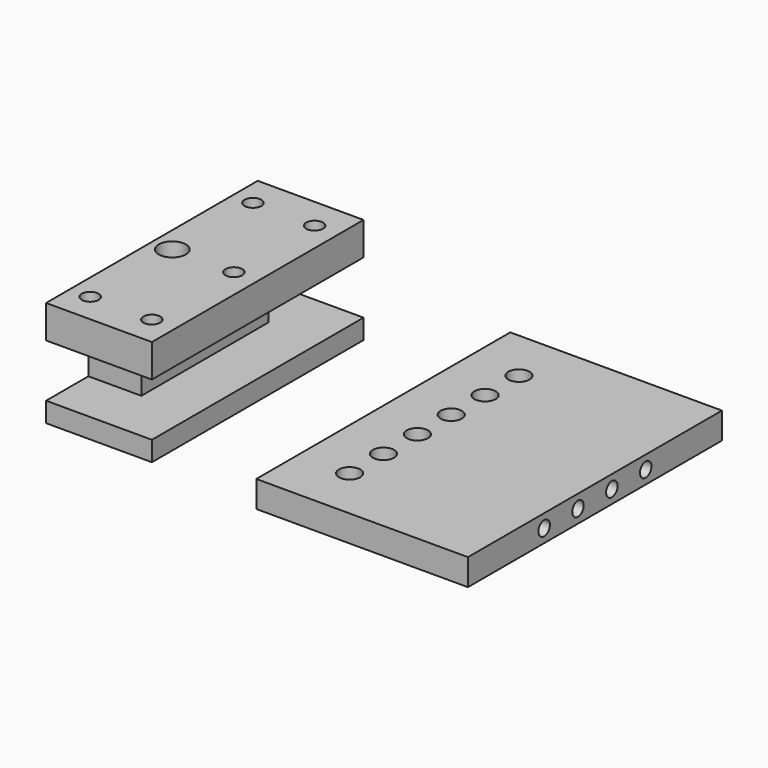
from build123d import *

# Parameters (mm, degrees)
F0_W      = 50.8
F0_H      = 76.2
F1_DEPTH  = 6.35
F3_D      = 5.1054
F5_D      = 3.4544
F5_DEPTH  = 9.525
F5_TIP    = 1.0378064612
F6_W      = 25.4
F6_H      = 63.5
F7_DEPTH  = 25.4
F8_W      = 25.4
F8_H      = 12.7254
F9_DEPTH  = 12.7
F10_W     = 25.4
F10_H     = 12.7254
F11_DEPTH = 12.7
F12_W     = 38.1
F12_H     = 12.7254
F13_DEPTH = 12.7
F15_D     = 4.0386
F15_DEPTH = 9.525
F15_TIP   = 1.213317848
F16_D     = 6.5278


with BuildPart() as f1:
    # F0 (on Top) → F1 (new body)
    with BuildSketch(Plane.XY):
        Rectangle(F0_W, F0_H)
    extrude(amount=F1_DEPTH)

    # F3 (through all)
    with Locations(Plane.XY.offset(6.35)):
        with Locations((-13.1587591022, 25.4), (-13.1587591022, 15.24), (-13.1587591022, 5.08), (-13.1587591022, -5.08), (-13.1587591022, -15.24), (-13.1587591022, -25.4)):
            Hole(F3_D / 2)

    # F5
    with Locations(Plane.YZ.offset(25.4)):
        with Locations((-15.24, 3.175), (-5.08, 3.175), (5.08, 3.175), (15.24, 3.175)):
            Hole(F5_D / 2, depth=F5_DEPTH)
            with Locations((0, 0, -(F5_DEPTH + F5_TIP / 2))):  # 118° drill point
                Cone(0, F5_D / 2, F5_TIP, mode=Mode.SUBTRACT)


with BuildPart() as f7:
    # F6 (on Top) → F7 (new body)
    with BuildSketch(Plane.XY):
        with Locations((-65.2278307825, -3.75713877)):
            Rectangle(F6_W, F6_H)
    extrude(amount=F7_DEPTH)

    # F8 (on face) → F9 (cut)
    with BuildSketch(Plane.XZ.offset(35.50713877)):
        with Locations((-65.2278307825, 11.1125)):
            Rectangle(F8_W, F8_H)
    extrude(amount=-F9_DEPTH, mode=Mode.SUBTRACT)

    # F10 (on face) → F11 (cut)
    with BuildSketch(Plane(origin=(0, 27.99286123, 0), x_dir=(-1, 0, 0), z_dir=(0, 1, 0))):
        with Locations((65.2278307825, 11.1125)):
            Rectangle(F10_W, F10_H)
    extrude(amount=-F11_DEPTH, mode=Mode.SUBTRACT)

    # F12 (on face) → F13 (cut)
    with BuildSketch(Plane.YZ.offset(-52.5278307825)):
        with Locations((-3.75713877, 11.1125)):
            Rectangle(F12_W, F12_H)
    extrude(amount=-F13_DEPTH, mode=Mode.SUBTRACT)

    # F15
    with Locations(Plane.XY.offset(25.4)):
        with Locations((-73.0292052031, 20.4399321228), (-58.2360997796, 20.4399321228), (-58.2360997796, -3.75713877), (-58.2360997796, -28.3932108432), (-73.0292052031, -28.3932108432)):
            Hole(F15_D / 2, depth=F15_DEPTH)
            with Locations((0, 0, -(F15_DEPTH + F15_TIP / 2))):  # 118° drill point
                Cone(0, F15_D / 2, F15_TIP, mode=Mode.SUBTRACT)

    # F16 (through all)
    with Locations(Plane.XY.offset(25.4)):
        with Locations((-73.0292052031, -3.75713877)):
            Hole(F16_D / 2)


solid = Compound([f1.part, f7.part])
